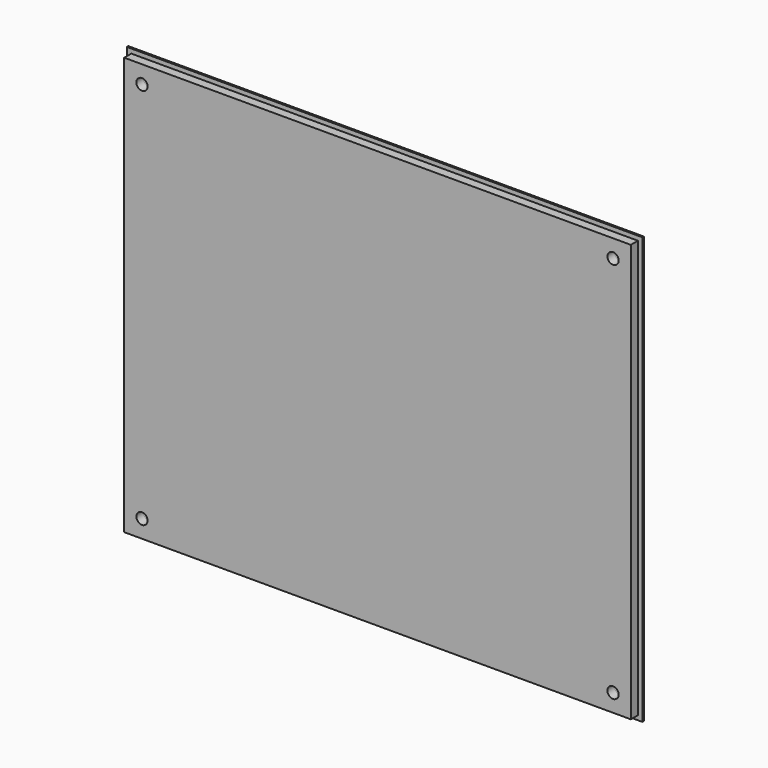
from build123d import *

# Parameters (mm, degrees)
F0_W     = 361.95
F0_H     = 298.45
F0_R     = 4.015807
F1_DEPTH = 6.35
F0_W_2   = 368.3
F0_H_2   = 304.8
F2_DEPTH = 6.35
F3_SIZE  = 5.08


with BuildPart() as f1:
    # F0 (on Front) → F1 (new body)
    with BuildSketch(Plane.XZ):
        with Locations((-0.017055, -0.036295)):
            Rectangle(F0_W, F0_H)
        with Locations((-168.292055, -136.561295)):
            Circle(F0_R, mode=Mode.SUBTRACT)
        with Locations((168.257945, -136.561295)):
            Circle(F0_R, mode=Mode.SUBTRACT)
        with Locations((-168.292055, 136.488705)):
            Circle(F0_R, mode=Mode.SUBTRACT)
        with Locations((168.257945, 136.488705)):
            Circle(F0_R, mode=Mode.SUBTRACT)
    extrude(amount=F1_DEPTH)

    # F0 (on Front) → F2 (join)
    with BuildSketch(Plane.XZ):
        with Locations((-0.017055, -0.036295)):
            Rectangle(F0_W_2, F0_H_2)
        with Locations((-0.017055, -0.036295)):
            Rectangle(F0_W, F0_H, mode=Mode.SUBTRACT)
        with Locations((-0.017055, -0.036295)):
            Rectangle(F0_W, F0_H)
        with Locations((-168.292055, -136.561295)):
            Circle(F0_R, mode=Mode.SUBTRACT)
        with Locations((168.257945, -136.561295)):
            Circle(F0_R, mode=Mode.SUBTRACT)
        with Locations((-168.292055, 136.488705)):
            Circle(F0_R, mode=Mode.SUBTRACT)
        with Locations((168.257945, 136.488705)):
            Circle(F0_R, mode=Mode.SUBTRACT)
    extrude(amount=-F2_DEPTH)

    # F3
    f3_edges = [f1.edges().sort_by_distance(p)[0] for p in [
        (-0.017055, 6.35, 152.363705),
        (184.132945, 6.35, -0.036295),
        (-0.017055, 6.35, -152.436295),
        (-184.167055, 6.35, -0.036295),
    ]]
    chamfer(f3_edges, length=F3_SIZE)


solid = f1.part
